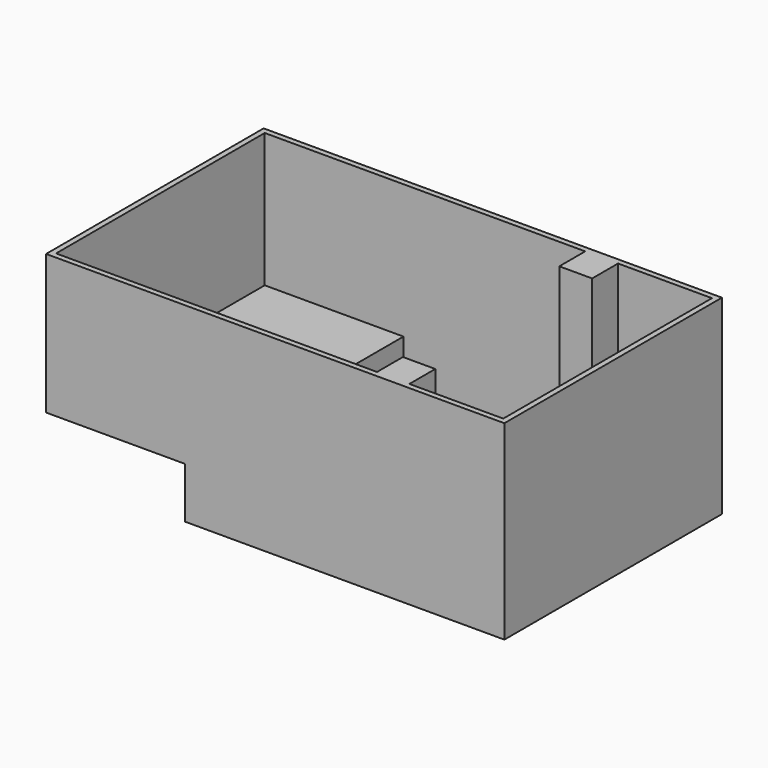
from build123d import *

# Parameters (mm, degrees)
F0_W     = 6670
F0_H     = 5640
F1_DEPTH = 4000
F2_W     = 5640
F2_H     = 2900
F3_DEPTH = 3000
F4_T     = 120
F5_W     = 700
F5_H     = 700
F5_W_2   = 710
F6_DEPTH = 4000


with BuildPart() as f1:
    # F0 (on Top) → F1 (new body)
    with BuildSketch(Plane.XY):
        with Locations((4.8496238887, 873.3809552149)):
            Rectangle(F0_W, F0_H)
    extrude(amount=F1_DEPTH)

    # F2 (on face) → F3 (join)
    with BuildSketch(Plane(origin=(-3330.1503761113, 0, 0), x_dir=(0, -1, 0), z_dir=(-1, 0, 0))):
        with Locations((-873.3809552149, 2550)):
            Rectangle(F2_W, F2_H)
    extrude(amount=F3_DEPTH)

    # F4
    f4_openings = [f1.faces().sort_by_distance(p)[0] for p in [
        (-1495.150376, 873.380955, 4000),
    ]]
    offset(amount=F4_T, openings=f4_openings, kind=Kind.INTERSECTION)

    # F5 (on face) → F6 (join, through all)
    with BuildSketch(Plane.XY):
        with Locations((959.8496238887, -1596.6190447851)):
            Rectangle(F5_W, F5_H)
        with Locations((954.8496238887, 3343.3809552149)):
            Rectangle(F5_W_2, F5_H)
    extrude(amount=F6_DEPTH)


solid = f1.part
